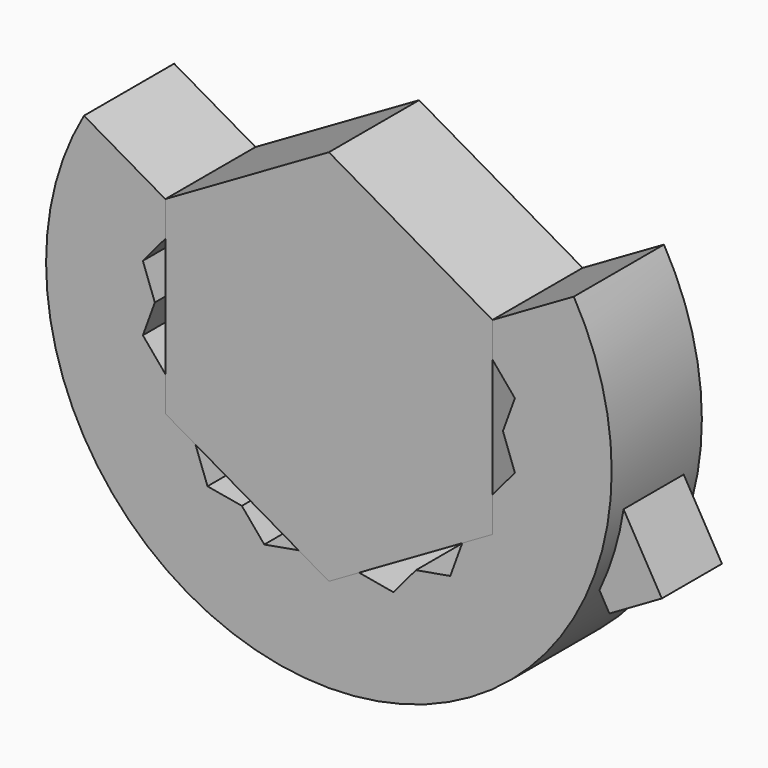
from build123d import *

# Parameters (mm, degrees)
F1_DEPTH = 12
F3_DEPTH = 12
F4_ANGLE = 160
F5_ANGLE = 20
F6_ANGLE = 20
F9_DEPTH = 4


with BuildPart() as f1:
    # F0 (on Front) → F1 (new body)
    with BuildSketch(Plane.XZ):
        with BuildLine():
            Line((26.0718956551, 13.2976503094), (17.4116416173, 8.2976503094))
            Line((17.4116416173, 8.2976503094), (17.4116416173, 4.5823536131))
            Line((17.4116416173, 4.5823536131), (19.7997883, 1.7362712243))
            Line((19.7997883, 1.7362712243), (18.5290819914, -1.7549656653))
            Line((18.5290819914, -1.7549656653), (19.7997883, -5.246202555))
            Line((19.7997883, -5.246202555), (17.4116416173, -8.0922849437))
            Line((17.4116416173, -8.0922849437), (17.4116416173, -11.8075816401))
            Line((17.4116416173, -11.8075816401), (14.1941002956, -13.6652299883))
            Line((14.1941002956, -13.6652299883), (12.923393987, -17.1564668779))
            Line((12.923393987, -17.1564668779), (9.2645409957, -17.8016213787))
            Line((9.2645409957, -17.8016213787), (6.876394313, -20.6477037675))
            Line((6.876394313, -20.6477037675), (3.2175413217, -20.0025492667))
            Line((3.2175413217, -20.0025492667), (0, -21.8601976149))
            Line((0, -21.8601976149), (-3.2175413217, -20.0025492667))
            Line((-3.2175413217, -20.0025492667), (-6.876394313, -20.6477037675))
            Line((-6.876394313, -20.6477037675), (-9.2645409957, -17.8016213787))
            Line((-9.2645409957, -17.8016213787), (-12.923393987, -17.1564668779))
            Line((-12.923393987, -17.1564668779), (-14.1941002956, -13.6652299883))
            Line((-14.1941002956, -13.6652299883), (-17.4116416173, -11.8075816401))
            Line((-17.4116416173, -11.8075816401), (-17.4116416173, -8.0922849437))
            Line((-17.4116416173, -8.0922849437), (-19.7997883, -5.246202555))
            Line((-19.7997883, -5.246202555), (-18.5290819914, -1.7549656653))
            Line((-18.5290819914, -1.7549656653), (-19.7997883, 1.7362712243))
            Line((-19.7997883, 1.7362712243), (-17.4116416173, 4.5823536131))
            Line((-17.4116416173, 4.5823536131), (-17.4116416173, 8.2976503094))
            Line((-17.4116416173, 8.2976503094), (-26.0718956551, 13.2976503094))
            ThreePointArc((-26.0718956551, 13.2976503094), (0, -31.8601976149), (26.0718956551, 13.2976503094))
        make_face()
    extrude(amount=F1_DEPTH)


with BuildPart() as f3:
    # F2 (on face) → F3 (new body)
    with BuildSketch(Plane(origin=(0, 0, 0), x_dir=(-1, 0, 0), z_dir=(0, 1, 0))):
        Polygon((-12.923393987, -17.1564668779), (6.876394313, -20.6477037675), (19.7997883, -5.246202555), (12.923393987, 13.6465355472), (-6.876394313, 17.1377724368), (-19.7997883, 1.7362712243), align=None)
    extrude(amount=-F3_DEPTH)


with BuildPart() as f3_1:
    # F4: moved
    add(f3.part.rotate(Axis((0, 0, -1.7549656653), (0, 1, 0)), F4_ANGLE))


with BuildPart() as f5_1:
    # F5: copy of F3
    add(f3_1.part.rotate(Axis((0, 0, -1.7549656653), (0, 1, 0)), F5_ANGLE))


with BuildPart() as f6_1:
    # F6: copy of F5_1
    add(f5_1.part.rotate(Axis((0, 0, -1.7549656653), (0, 1, 0)), F6_ANGLE))


with BuildPart() as f9:
    # F8 (on offset) → F9 (new body, symmetric)
    with BuildSketch(Plane.XZ.offset(6)):
        with BuildLine():
            Line((21.6880679716, 7.7666462162), (17.4116416173, 5.2976503094))
            Line((17.4116416173, 5.2976503094), (17.4116416173, 2.2976503094))
            Line((17.4116416173, 2.2976503094), (27.2004135794, -14.6570000726))
            ThreePointArc((27.2004135794, -14.6570000726), (28.7951794468, -10.5391919467), (29.7704157653, -6.2323908069))
            Line((29.7704157653, -6.2323908069), (23.357103873, 4.8757912354))
            Line((23.357103873, 4.8757912354), (21.6880679716, 7.7666462162))
        make_face()
        with BuildLine():
            ThreePointArc((29.7704157653, -6.2323908069), (28.7951794468, -10.5391919467), (27.2004135794, -14.6570000726))
            Line((27.2004135794, -14.6570000726), (28.2642764055, -16.4996645398))
            Line((28.2642764055, -16.4996645398), (33.8397408655, -13.280668633))
            Line((33.8397408655, -13.280668633), (29.7704157653, -6.2323908069))
        make_face()
    extrude(amount=F9_DEPTH, both=True)


with BuildPart() as f1_1:
    add(f1.part)

    # F10: cut F9
    add(f9.part, mode=Mode.SUBTRACT)


solid = Compound([f3_1.part, f9.part, f1_1.part])
